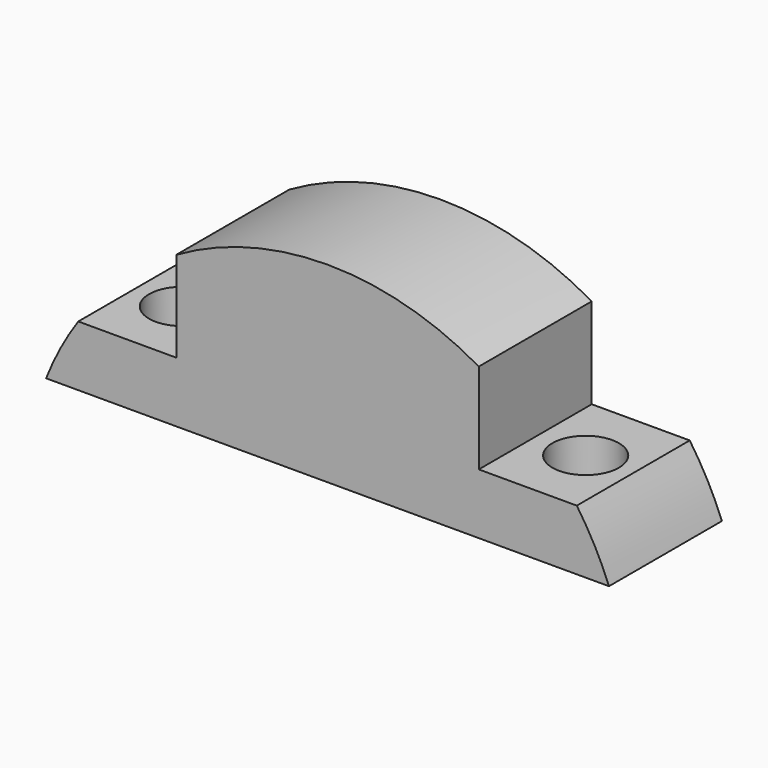
from build123d import *

# Parameters (mm, degrees)
F1_DEPTH = 7
F3_D     = 6.6


with BuildPart() as f1:
    # F0 (on Front) → F1 (new body, symmetric)
    with BuildSketch(Plane.XZ):
        with BuildLine():
            Line((-27.9105714739, 11), (27.9105714739, 11))
            ThreePointArc((27.9105714739, 11), (26.4849491781, 14.0906872449), (24.7184141886, 17))
            Line((24.7184141886, 17), (15, 17))
            Line((15, 17), (15, 25.9807621135))
            ThreePointArc((15, 25.9807621135), (0, 30), (-15, 25.9807621135))
            Line((-15, 25.9807621135), (-15, 17))
            Line((-15, 17), (-24.7184141886, 17))
            ThreePointArc((-24.7184141886, 17), (-26.4849491781, 14.0906872449), (-27.9105714739, 11))
        make_face()
    extrude(amount=F1_DEPTH, both=True)

    # F3 (through all)
    with Locations(Plane(origin=(0, 0, 11), x_dir=(1, 0, 0), z_dir=(0, 0, -1))):
        with Locations((-20, 0), (20, 0)):
            Hole(F3_D / 2)


solid = f1.part
